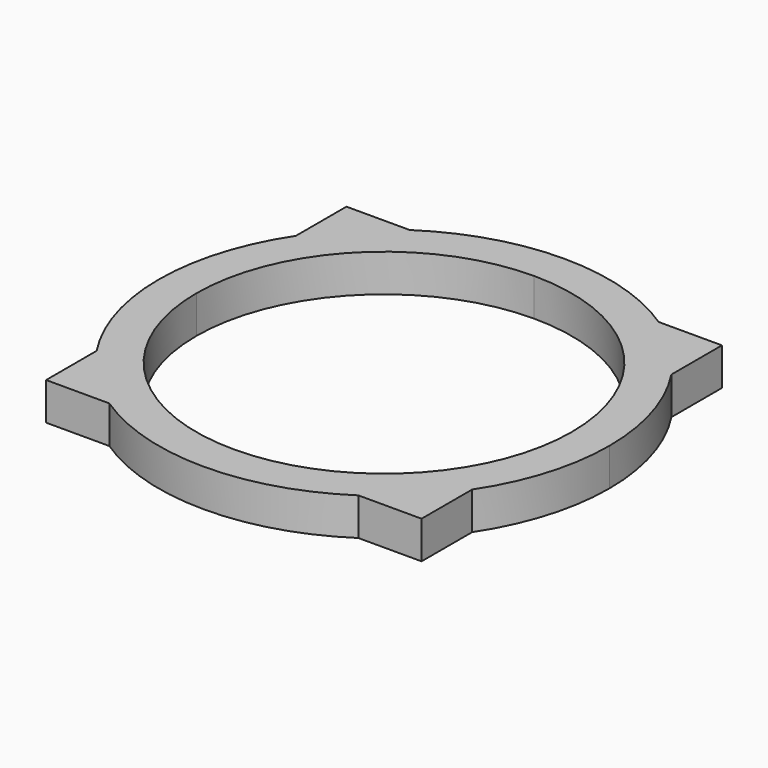
from build123d import *

# Parameters (mm, degrees)
F1_DEPTH = 1


with BuildPart() as f1:
    # F0 (on Top) → F1 (new body)
    with BuildSketch(Plane.XY):
        with BuildLine():
            Line((-25.1811890601, -9.5048295334), (-26.8645642698, -9.5048295334))
            Line((-26.8645642698, -9.5048295334), (-26.8645642698, -11.188204743))
            ThreePointArc((-26.8645642698, -11.188204743), (-26.1072049569, -10.2621888463), (-25.1811890601, -9.5048295334))
        make_face()
        with BuildLine():
            ThreePointArc((-25.1811890601, -9.5048295334), (-26.1072049569, -10.2621888463), (-26.8645642698, -11.188204743))
            Line((-26.8645642698, -11.188204743), (-26.8645642698, -14.5048295334))
            ThreePointArc((-26.8645642698, -14.5048295334), (-25.4000981824, -10.9692956341), (-21.8645642886, -9.5048295334))
            Line((-21.8645642886, -9.5048295334), (-25.1811890601, -9.5048295334))
        make_face()
        with BuildLine():
            Line((-26.8645642698, -14.5048295334), (-26.8645642698, -11.188204743))
            ThreePointArc((-26.8645642698, -11.188204743), (-27.8645642698, -14.5048295334), (-26.8645642698, -17.8214543238))
            Line((-26.8645642698, -17.8214543238), (-26.8645642698, -14.5048295334))
        make_face()
        with BuildLine():
            ThreePointArc((-18.5479394794, -9.5048295334), (-21.8645642698, -8.5048295334), (-25.1811890601, -9.5048295334))
            Line((-25.1811890601, -9.5048295334), (-21.8645642886, -9.5048295334))
            Line((-21.8645642886, -9.5048295334), (-18.5479394794, -9.5048295334))
        make_face()
        with BuildLine():
            ThreePointArc((-21.8645642698, -19.5048295334), (-25.4000981757, -18.0403634393), (-26.8645642698, -14.5048295334))
            Line((-26.8645642698, -14.5048295334), (-26.8645642698, -17.8214543238))
            ThreePointArc((-26.8645642698, -17.8214543238), (-26.1072049569, -18.7474702205), (-25.1811890601, -19.5048295334))
            Line((-25.1811890601, -19.5048295334), (-21.8645642698, -19.5048295334))
        make_face()
        with BuildLine():
            ThreePointArc((-25.1811890601, -19.5048295334), (-26.1072049569, -18.7474702205), (-26.8645642698, -17.8214543238))
            Line((-26.8645642698, -17.8214543238), (-26.8645642698, -19.5048295334))
            Line((-26.8645642698, -19.5048295334), (-25.1811890601, -19.5048295334))
        make_face()
        with BuildLine():
            Line((-18.5479394794, -9.5048295334), (-21.8645642886, -9.5048295334))
            ThreePointArc((-21.8645642886, -9.5048295334), (-18.3290303705, -10.9692956208), (-16.8645642698, -14.5048295334))
            Line((-16.8645642698, -14.5048295334), (-16.8645642698, -11.188204743))
            ThreePointArc((-16.8645642698, -11.188204743), (-17.6219235827, -10.2621888463), (-18.5479394794, -9.5048295334))
        make_face()
        with BuildLine():
            Line((-16.8645642698, -9.5048295334), (-18.5479394794, -9.5048295334))
            ThreePointArc((-18.5479394794, -9.5048295334), (-17.6219235827, -10.2621888463), (-16.8645642698, -11.188204743))
            Line((-16.8645642698, -11.188204743), (-16.8645642698, -9.5048295334))
        make_face()
        with BuildLine():
            Line((-18.5479394794, -19.5048295334), (-21.8645642698, -19.5048295334))
            Line((-21.8645642698, -19.5048295334), (-25.1811890601, -19.5048295334))
            ThreePointArc((-25.1811890601, -19.5048295334), (-21.8645642698, -20.5048295334), (-18.5479394794, -19.5048295334))
        make_face()
        with BuildLine():
            ThreePointArc((-16.8645642698, -14.5048295334), (-18.3290303638, -18.0403634393), (-21.8645642698, -19.5048295334))
            Line((-21.8645642698, -19.5048295334), (-18.5479394794, -19.5048295334))
            ThreePointArc((-18.5479394794, -19.5048295334), (-17.6219235827, -18.7474702205), (-16.8645642698, -17.8214543238))
            Line((-16.8645642698, -17.8214543238), (-16.8645642698, -14.5048295334))
        make_face()
        with BuildLine():
            Line((-16.8645642698, -11.188204743), (-16.8645642698, -14.5048295334))
            Line((-16.8645642698, -14.5048295334), (-16.8645642698, -17.8214543238))
            ThreePointArc((-16.8645642698, -17.8214543238), (-16.1200016232, -16.236880341), (-15.8645642698, -14.5048295334))
            ThreePointArc((-15.8645642698, -14.5048295334), (-16.1200016232, -12.7727787258), (-16.8645642698, -11.188204743))
        make_face()
        with BuildLine():
            ThreePointArc((-16.8645642698, -17.8214543238), (-17.6219235827, -18.7474702205), (-18.5479394794, -19.5048295334))
            Line((-18.5479394794, -19.5048295334), (-16.8645642698, -19.5048295334))
            Line((-16.8645642698, -19.5048295334), (-16.8645642698, -17.8214543238))
        make_face()
    extrude(amount=F1_DEPTH)


solid = f1.part
